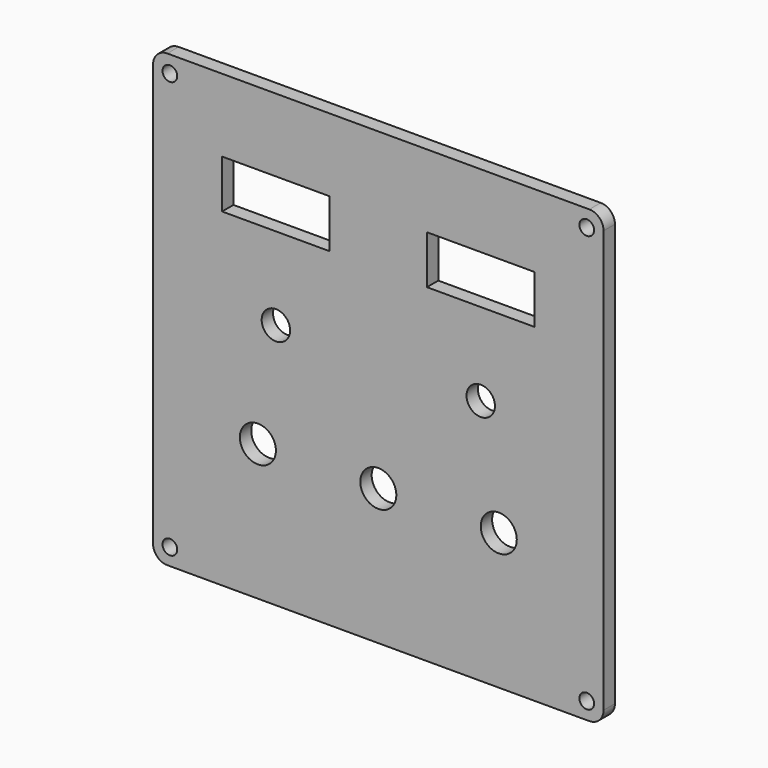
from build123d import *

# Parameters (mm, degrees)
F0_R     = 1.55
F0_R_2   = 3.8
F0_R_3   = 3
F0_W     = 22.7
F0_H     = 10.2
F1_DEPTH = 3


with BuildPart() as f1:
    # F0 (on Front) → F1 (new body)
    with BuildSketch(Plane.XZ):
        with BuildLine():
            Line((-44.5, -47.5), (44.5, -47.5))
            ThreePointArc((44.5, -47.5), (46.62132, -46.62132), (47.5, -44.5))
            Line((47.5, -44.5), (47.5, 44.5))
            ThreePointArc((47.5, 44.5), (46.62132, 46.62132), (44.5, 47.5))
            Line((44.5, 47.5), (-44.5, 47.5))
            ThreePointArc((-44.5, 47.5), (-46.62132, 46.62132), (-47.5, 44.5))
            Line((-47.5, 44.5), (-47.5, -44.5))
            ThreePointArc((-47.5, -44.5), (-46.62132, -46.62132), (-44.5, -47.5))
        make_face()
        with Locations((-43.95, -43.95)):
            Circle(F0_R, mode=Mode.SUBTRACT)
        with Locations((-25.4, -18.782858)):
            Circle(F0_R_2, mode=Mode.SUBTRACT)
        with Locations((43.95, -43.95)):
            Circle(F0_R, mode=Mode.SUBTRACT)
        with Locations((0, -18.782858)):
            Circle(F0_R_2, mode=Mode.SUBTRACT)
        with Locations((25.4, -18.782858)):
            Circle(F0_R_2, mode=Mode.SUBTRACT)
        with Locations((-21.6, 4.5)):
            Circle(F0_R_3, mode=Mode.SUBTRACT)
        with Locations((-43.95, 43.95)):
            Circle(F0_R, mode=Mode.SUBTRACT)
        with Locations((-21.6, 27.020905)):
            Rectangle(F0_W, F0_H, mode=Mode.SUBTRACT)
        with Locations((21.6, 4.5)):
            Circle(F0_R_3, mode=Mode.SUBTRACT)
        with Locations((21.6, 27.020905)):
            Rectangle(F0_W, F0_H, mode=Mode.SUBTRACT)
        with Locations((43.95, 43.95)):
            Circle(F0_R, mode=Mode.SUBTRACT)
    extrude(amount=F1_DEPTH)


solid = f1.part
